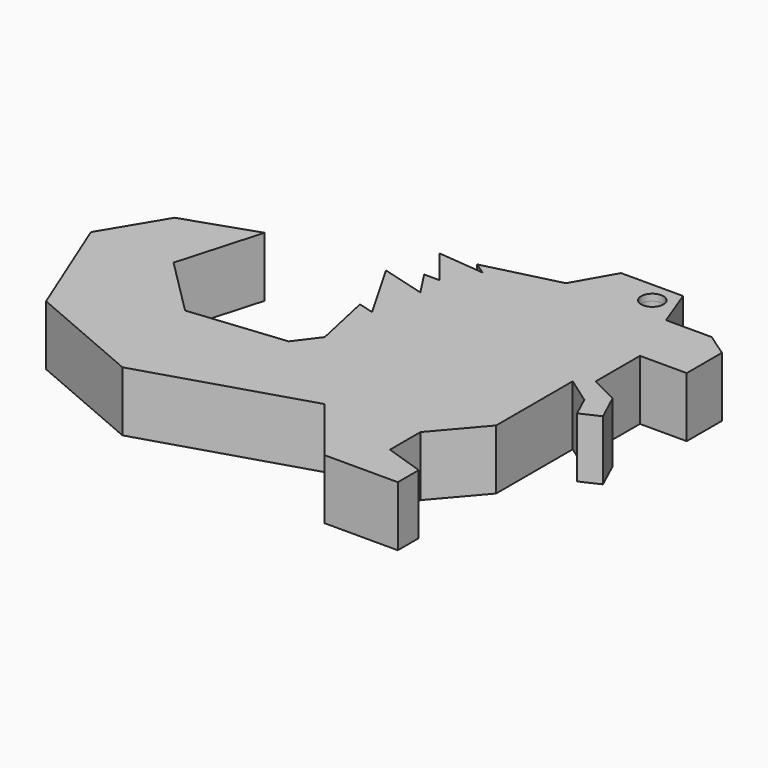
from build123d import *

# Parameters (mm, degrees)
F0_R     = 1.8629584398
F1_DEPTH = 9
F2_DEPTH = 10
F3_DEPTH = 1.1


with BuildPart() as f1:
    # F0 (on Top) → F1 (new body)
    with BuildSketch(Plane.XY):
        Polygon((18.5987912118, 38.7409813702), (10.9778223559, 38.7409813702), (8.437499404, 45.4549640417), (-1.9052419811, 45.4549640417), (-5.7157264091, 38.7409813702), (-8.618952008, 29.1236611083), (-11.5221776068, 19.5063408464), (-13.6186698187, 16.7213371643), (-14.8627730185, 15.0686565711), (-20.7560974635, 7.2398985219), (-23.6794371158, 3.3565014601), (-39.6471805871, 1.7233715625), (-49.2641143501, 11.3406926394), (-45.2721789479, 25.3130253404), (-57.0665337145, 21.3209297508), (-63.0544349551, 11.3406926394), (-55.4334707558, -7.5310315005), (-36.0181480646, -15.8781390637), (-8.9818555862, -7.5310315005), (-8.9818555862, -1.3614293421), (-4.0826620534, 6.2598437071), (5.7157254778, 6.2598437071), (5.7157254778, -5.8979014866), (12.2479852289, 1.7233715625), (12.2479852289, 17.6917538047), (16.7028524828, 14.5414304721), (18.3491399307, 10.9743302194), (21.5020161122, 12.4294450507), (19.3245969713, 17.1473771334), (14.606856741, 19.5063408464), (14.606856741, 28.7607442588), (22.4092733115, 28.7607442588), (22.4092733115, 36.1032277718), align=None)
        with Locations((6.0786283575, 42.0072451234)):
            Circle(F0_R, mode=Mode.SUBTRACT)
    extrude(amount=F1_DEPTH)

    # F0 (on Top) → F2 (join)
    with BuildSketch(Plane.XY):
        Polygon((18.5987912118, 38.7409813702), (10.9778223559, 38.7409813702), (8.437499404, 45.4549640417), (-1.9052419811, 45.4549640417), (-5.7157264091, 38.7409813702), (-8.618952008, 29.1236611083), (-11.5221776068, 19.5063408464), (-13.6186698187, 16.7213371643), (-14.8627730185, 15.0686565711), (-20.7560974635, 7.2398985219), (-23.6794371158, 3.3565014601), (-39.6471805871, 1.7233715625), (-49.2641143501, 11.3406926394), (-45.2721789479, 25.3130253404), (-57.0665337145, 21.3209297508), (-63.0544349551, 11.3406926394), (-55.4334707558, -7.5310315005), (-36.0181480646, -15.8781390637), (-8.9818555862, -7.5310315005), (-8.9818555862, -1.3614293421), (-4.0826620534, 6.2598437071), (5.7157254778, 6.2598437071), (5.7157254778, -5.8979014866), (12.2479852289, 1.7233715625), (12.2479852289, 17.6917538047), (16.7028524828, 14.5414304721), (18.3491399307, 10.9743302194), (21.5020161122, 12.4294450507), (19.3245969713, 17.1473771334), (14.606856741, 19.5063408464), (14.606856741, 28.7607442588), (22.4092733115, 28.7607442588), (22.4092733115, 36.1032277718), align=None)
        with Locations((6.0786283575, 42.0072451234)):
            Circle(F0_R, mode=Mode.SUBTRACT)
        Polygon((-8.618952008, 29.1236611083), (-5.7157264091, 38.7409813702), (-18.0544368923, 35.6552451849), (-16.0939348651, 34.2981147375), align=None)
        Polygon((-19.0954450518, 29.1236611083), (-8.618952008, 29.1236611083), (-16.0939348651, 34.2981147375), align=None)
        Polygon((-11.5221776068, 19.5063408464), (-8.618952008, 29.1236611083), (-19.0954450518, 29.1236611083), (-21.6834675521, 29.1236611083), (-18.9082012561, 24.8557609363), (-13.6186698187, 16.7213371643), align=None)
        Polygon((-19.0954450518, 29.1236611083), (-16.0939348651, 34.2981147375), (-23.8949824125, 35.0367799401), align=None)
        Polygon((-14.8627730185, 15.0686565711), (-13.6186698187, 16.7213371643), (-18.9082012561, 24.8557609363), (-20.3540053018, 16.6024911018), align=None)
        Polygon((-20.7560974635, 7.2398985219), (-14.8627730185, 15.0686565711), (-20.3540053018, 16.6024911018), (-22.9536294937, 17.3286292702), align=None)
        Polygon((-20.3540053018, 16.6024911018), (-18.9082012561, 24.8557609363), (-26.3009262924, 26.9207285705), align=None)
        Polygon((5.7157254778, -12.2489631176), (5.7157254778, -5.8979014866), (5.7157254778, 6.2598437071), (-4.0826620534, 6.2598437071), (-8.9818555862, -1.3614293421), (-8.9818555862, -7.5310315005), (0, -18.7814813107), (12.2479852289, -18.7814813107), (12.2479852289, -14.4264688715), align=None)
    extrude(amount=F2_DEPTH)

    # F3 (add): a face of the model
    f3_faces = [f1.faces().sort_by_distance(p)[0] for p in [
        (-14.7622843494, 10.8873438604, 10),
    ]]
    extrude(f3_faces, amount=-F3_DEPTH)


solid = f1.part
